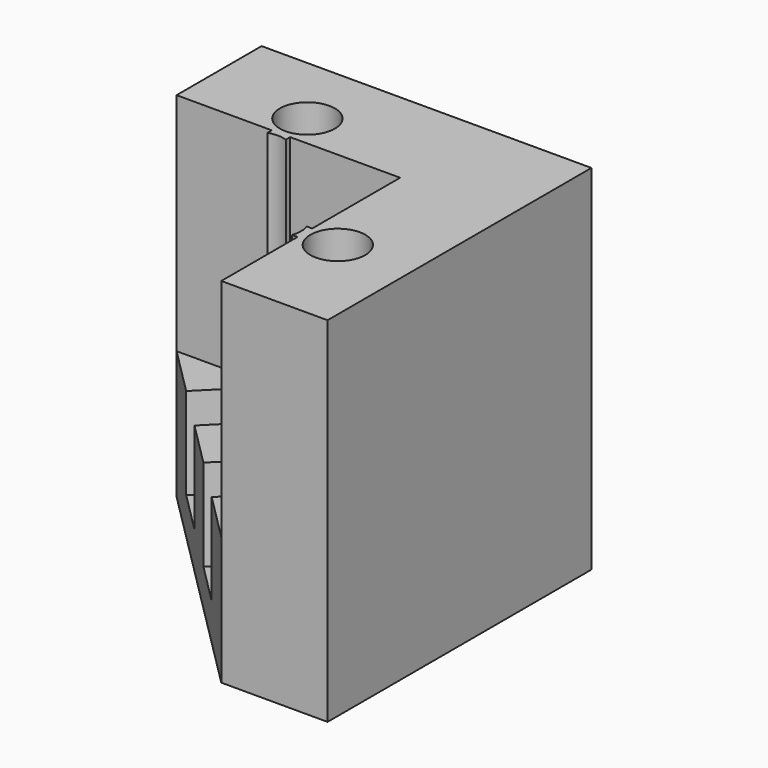
from build123d import *

# Parameters (mm, degrees)
PAD_DEPTH       = 19.3
POCKET_DEPTH    = 12.301
POCKET002_DEPTH = 5
SKETCH003_R     = 1.5
POCKET003_DEPTH = 17.3
PAD001_DEPTH    = 12.3


with BuildPart() as part:
    # Sketch → Pad (new body)
    with BuildSketch(Plane.XY):
        Polygon((-9, 3.2), (-9, 9), (9, 9), (9, -9), (3.2, -9), align=None)
    extrude(amount=PAD_DEPTH)

    # Sketch001 (on DatumPlane) → Pocket (cut, through all)
    with BuildSketch(Plane.XY.offset(7)):
        Polygon((-9, 3.2), (3.2, 3.2), (3.2, -9), align=None)
    extrude(amount=POCKET_DEPTH, mode=Mode.SUBTRACT)

    # Sketch002 (on DatumPlane) → Pocket002 (cut)
    with BuildSketch(Plane.XY.offset(7)):
        with BuildLine():
            ThreePointArc((-2.168629, 0.268629), (-2.168629, 2.531371), (-4.431371, 2.531371))
            Line((-4.431371, 2.531371), (-6.694113, 0.268629))
            Line((-4.431371, -1.994113), (-6.694113, 0.268629))
            Line((-2.168629, 0.268629), (-4.431371, -1.994113))
        make_face()
        with BuildLine():
            ThreePointArc((2.531371, -4.431371), (2.531371, -2.168629), (0.268629, -2.168629))
            Line((0.268629, -2.168629), (-1.994113, -4.431371))
            Line((0.268629, -6.694113), (-1.994113, -4.431371))
            Line((2.531371, -4.431371), (0.268629, -6.694113))
        make_face()
    extrude(amount=-POCKET002_DEPTH, mode=Mode.SUBTRACT)

    # Sketch003 (on DatumPlane) → Pocket003 (cut)
    with BuildSketch(Plane.XY.offset(19.3)):
        with Locations((-3.3, 5)):
            Circle(SKETCH003_R)
        with Locations((5, -3.3)):
            Circle(SKETCH003_R)
    extrude(amount=-POCKET003_DEPTH, mode=Mode.SUBTRACT)

    # Sketch004 (on DatumPlane) → Pad001 (join)
    with BuildSketch(Plane.XY.offset(19.3)):
        with BuildLine():
            Line((-3.8, 3.2), (-2.8, 3.2))
            Line((-2.8, 3.2), (-2.8, 2.9))
            ThreePointArc((-2.8, 2.9), (-3.3, 2.985786), (-3.8, 2.9))
            Line((-3.8, 2.9), (-3.8, 3.2))
        make_face()
        with BuildLine():
            Line((3.2, -2.8), (2.9, -2.8))
            ThreePointArc((2.9, -3.8), (2.985786, -3.3), (2.9, -2.8))
            Line((2.9, -3.8), (3.2, -3.8))
            Line((3.2, -3.8), (3.2, -2.8))
        make_face()
    extrude(amount=-PAD001_DEPTH)


solid = part.part
